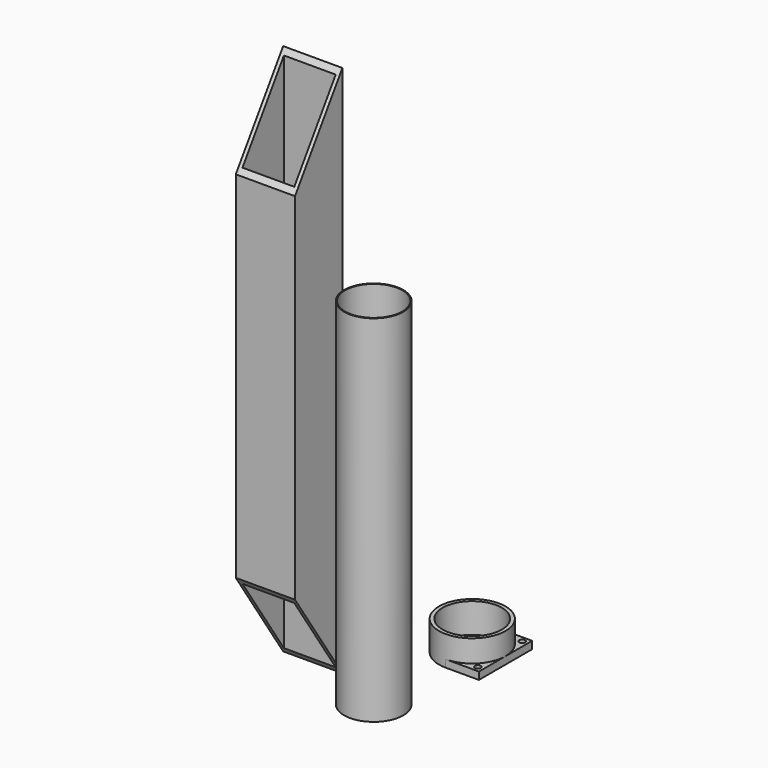
from build123d import *

# Parameters (mm, degrees)
F0_R       = 25.4
F0_R_2     = 24.60625
F1_DEPTH   = 152.4
F2_R       = 25.4
F2_R_2     = 24.60625
F3_DEPTH   = 304.8
F5_DEPTH   = 6.35
F7_DEPTH   = 19.05
F8_R       = 25.4
F8_R_2     = 2.54
F9_DEPTH   = 304.801
F10_R      = 26.9875
F11_DEPTH  = 6.35
F12_R      = 24.60625
F13_DEPTH  = 19.05
F14_R      = 2.159
F14_R_2    = 12.7
F13_FACE_R = 24.60625
F15_DEPTH  = 304.801
F16_R      = 2.159
F17_DEPTH  = 19.05
F18_R      = 12.7
F19_DEPTH  = 19.05
F20_R      = 25.4
F20_R_2    = 2.159
F20_R_3    = 12.7
F21_DEPTH  = 3.175
F23_W      = 50.8
F23_H      = 50.8
F23_W_2    = 44.45
F23_H_2    = 44.45
F24_DEPTH  = 457.2
F26_DEPTH  = 128.3173194947


with BuildPart() as f1:
    # F0 (on Top) → F1 (new body)
    with BuildSketch(Plane.XY):
        with Locations((-46.0453219712, 48.7792603672)):
            Circle(F0_R)
        with Locations((-46.0453219712, 48.7792603672)):
            Circle(F0_R_2, mode=Mode.SUBTRACT)
    extrude(amount=F1_DEPTH)


with BuildPart() as f3:
    # F2 (on Top) → F3 (new body)
    with BuildSketch(Plane.XY):
        with Locations((30.5050238967, -35.8290150762)):
            Circle(F2_R)
        with Locations((30.5050238967, -35.8290150762)):
            Circle(F2_R_2, mode=Mode.SUBTRACT)
    extrude(amount=F3_DEPTH)


with BuildPart() as f5:
    # F4 (on Top) → F5 (new body)
    with BuildSketch(Plane.XY):
        with BuildLine():
            Line((63.3678516858, 35.9171391623), (63.3678516858, 64.4921391623))
            ThreePointArc((63.3678516858, 64.4921391623), (54.9984279582, 44.2865628899), (34.7928516858, 35.9171391623))
            Line((34.7928516858, 35.9171391623), (63.3678516858, 35.9171391623))
        make_face()
        with BuildLine():
            ThreePointArc((34.7928516858, 35.9171391623), (54.9984279582, 44.2865628899), (63.3678516858, 64.4921391623))
            ThreePointArc((63.3678516858, 64.4921391623), (54.9984279582, 84.6977154347), (34.7928516858, 93.0671391623))
            Line((34.7928516858, 93.0671391623), (34.7928516858, 35.9171391623))
        make_face()
        with BuildLine():
            ThreePointArc((34.7928516858, 93.0671391623), (54.9984279582, 84.6977154347), (63.3678516858, 64.4921391623))
            Line((63.3678516858, 64.4921391623), (63.3678516858, 93.0671391623))
            Line((63.3678516858, 93.0671391623), (34.7928516858, 93.0671391623))
        make_face()
        with BuildLine():
            Line((34.7928516858, 35.9171391623), (34.7928516858, 93.0671391623))
            ThreePointArc((34.7928516858, 93.0671391623), (6.2178516858, 64.4921391623), (34.7928516858, 35.9171391623))
        make_face()
    extrude(amount=F5_DEPTH)

    # F6 (on face) → F7 (join)
    with BuildSketch(Plane.XY.offset(6.35)):
        with BuildLine():
            ThreePointArc((34.7928516858, 35.9171391623), (54.9984279582, 44.2865628899), (63.3678516858, 64.4921391623))
            ThreePointArc((63.3678516858, 64.4921391623), (54.9984279582, 84.6977154347), (34.7928516858, 93.0671391623))
            ThreePointArc((34.7928516858, 93.0671391623), (6.2178516858, 64.4921391623), (34.7928516858, 35.9171391623))
        make_face()
    extrude(amount=F7_DEPTH)

    # F8 (on face) → F9 (cut, through all)
    with BuildSketch(Plane(origin=(0, 0, 0), x_dir=(1, 0, 0), z_dir=(0, 0, -1))):
        with Locations((34.7928516858, -64.4921391623)):
            Circle(F8_R)
        with Locations((58.6053516858, -88.3046391623)):
            Circle(F8_R_2)
        with Locations((58.6053516858, -40.6796391623)):
            Circle(F8_R_2)
    extrude(amount=-F9_DEPTH, mode=Mode.SUBTRACT)


with BuildPart() as f11:
    # F10 (on Top) → F11 (new body)
    with BuildSketch(Plane.XY):
        with Locations((-46.9862222672, -21.7718593776)):
            Circle(F10_R)
    extrude(amount=F11_DEPTH)

    # F12 (on face) → F13 (join)
    with BuildSketch(Plane.XY.offset(6.35)):
        with Locations((-46.9862222672, -21.7718593776)):
            Circle(F12_R)
    extrude(amount=F13_DEPTH)

    # F14 (on face) + F13_face (on face) → F15 (cut, through all)
    with BuildSketch(Plane(origin=(0, 0, 0), x_dir=(1, 0, 0), z_dir=(0, 0, -1))):
        with Locations((-46.9862222672, 43.3618593776)):
            Circle(F14_R)
        with Locations((-25.3962222672, 21.7718593776)):
            Circle(F14_R)
        with Locations((-46.9862222672, 0.1818593776)):
            Circle(F14_R)
        with Locations((-68.5762222672, 21.7718593776)):
            Circle(F14_R)
        with Locations((-46.9862222672, 21.7718593776)):
            Circle(F14_R_2)
    with BuildSketch(Plane(origin=(-46.9862222672, -21.7718593776, 25.4), x_dir=(1, 0, 0), z_dir=(0, 0, 1))):
        Circle(F13_FACE_R)
    extrude(amount=-F15_DEPTH, dir=(0, 0, -1), mode=Mode.SUBTRACT)

    # F16 (on face) → F17 (cut)
    with BuildSketch(Plane.XY.offset(25.4)):
        with BuildLine():
            Line((-52.4140715319, 2.2282654433), (-51.6314077164, -1.2324108482))
            ThreePointArc((-51.6314077164, -1.2324108482), (-46.9862222672, -4.9443593776), (-42.3410368179, -1.2324108482))
            Line((-42.3410368179, -1.2324108482), (-41.5583730024, 2.2282654433))
            ThreePointArc((-41.5583730024, 2.2282654433), (-46.9862222672, 2.8343906224), (-52.4140715319, 2.2282654433))
        make_face()
        with Locations((-46.9862222672, -0.1818593776)):
            Circle(F16_R, mode=Mode.SUBTRACT)
        with BuildLine():
            ThreePointArc((-22.3799722672, -21.7718593776), (-22.5319730409, -19.0410657488), (-22.9860974462, -16.3440101129))
            Line((-22.9860974462, -16.3440101129), (-26.4467737377, -17.1266739284))
            ThreePointArc((-26.4467737377, -17.1266739284), (-30.1587222672, -21.7718593776), (-26.4467737377, -26.4170448268))
            Line((-26.4467737377, -26.4170448268), (-22.9860974462, -27.1997086423))
            ThreePointArc((-22.9860974462, -27.1997086423), (-22.5319730409, -24.5026530065), (-22.3799722672, -21.7718593776))
        make_face()
        with Locations((-25.3962222672, -21.7718593776)):
            Circle(F16_R, mode=Mode.SUBTRACT)
        with BuildLine():
            Line((-51.6314077164, -42.311307907), (-52.4140715319, -45.7719841986))
            ThreePointArc((-52.4140715319, -45.7719841986), (-46.9862222672, -46.3781093776), (-41.5583730024, -45.7719841986))
            Line((-41.5583730024, -45.7719841986), (-42.3410368179, -42.311307907))
            ThreePointArc((-42.3410368179, -42.311307907), (-46.9862222672, -38.5993593776), (-51.6314077164, -42.311307907))
        make_face()
        with Locations((-46.9862222672, -43.3618593776)):
            Circle(F16_R, mode=Mode.SUBTRACT)
        with BuildLine():
            Line((-67.5256707966, -17.1266739284), (-70.9863470881, -16.3440101129))
            ThreePointArc((-70.9863470881, -16.3440101129), (-71.5924722672, -21.7718593776), (-70.9863470881, -27.1997086423))
            Line((-70.9863470881, -27.1997086423), (-67.5256707966, -26.4170448268))
            ThreePointArc((-67.5256707966, -26.4170448268), (-63.8137222672, -21.7718593776), (-67.5256707966, -17.1266739284))
        make_face()
        with Locations((-68.5762222672, -21.7718593776)):
            Circle(F16_R, mode=Mode.SUBTRACT)
    extrude(amount=-F17_DEPTH, mode=Mode.SUBTRACT)

    # F18 (on face) → F19 (cut)
    with BuildSketch(Plane.XY.offset(25.4)):
        with BuildLine():
            ThreePointArc((-39.7226986142, -0.9353382379), (-46.9862222672, -7.4843593776), (-54.2497459201, -0.9353382379))
            ThreePointArc((-54.2497459201, -0.9353382379), (-62.5894172775, -6.1686643673), (-67.8227434069, -14.5083357247))
            ThreePointArc((-67.8227434069, -14.5083357247), (-61.2737222672, -21.7718593776), (-67.8227434069, -29.0353830306))
            ThreePointArc((-67.8227434069, -29.0353830306), (-62.5894172775, -37.375054388), (-54.2497459201, -42.6083805173))
            ThreePointArc((-54.2497459201, -42.6083805173), (-46.9862222672, -36.0593593776), (-39.7226986142, -42.6083805173))
            ThreePointArc((-39.7226986142, -42.6083805173), (-31.3830272568, -37.375054388), (-26.1497011274, -29.0353830306))
            ThreePointArc((-26.1497011274, -29.0353830306), (-32.6987222672, -21.7718593776), (-26.1497011274, -14.5083357247))
            ThreePointArc((-26.1497011274, -14.5083357247), (-31.3830272568, -6.1686643673), (-39.7226986142, -0.9353382379))
        make_face()
        with Locations((-46.9862222672, -21.7718593776)):
            Circle(F18_R, mode=Mode.SUBTRACT)
    extrude(amount=-F19_DEPTH, mode=Mode.SUBTRACT)

    # F20 (on face) → F21 (cut)
    with BuildSketch(Plane(origin=(0, 0, 0), x_dir=(1, 0, 0), z_dir=(0, 0, -1))):
        with Locations((-46.9862222672, 21.7718593776)):
            Circle(F20_R)
        with Locations((-46.9862222672, 0.1818593776)):
            Circle(F20_R_2, mode=Mode.SUBTRACT)
        with Locations((-68.5762222672, 21.7718593776)):
            Circle(F20_R_2, mode=Mode.SUBTRACT)
        with Locations((-46.9862222672, 43.3618593776)):
            Circle(F20_R_2, mode=Mode.SUBTRACT)
        with Locations((-46.9862222672, 21.7718593776)):
            Circle(F20_R_3, mode=Mode.SUBTRACT)
        with Locations((-25.3962222672, 21.7718593776)):
            Circle(F20_R_2, mode=Mode.SUBTRACT)
    extrude(amount=-F21_DEPTH, mode=Mode.SUBTRACT)


with BuildPart() as f24:
    # F23 (on Top) → F24 (new body)
    with BuildSketch(Plane.XY):
        with Locations((-39.548467809, -39.0210635602)):
            Rectangle(F23_W, F23_H)
        with Locations((-39.548467809, -39.0210635602)):
            Rectangle(F23_W_2, F23_H_2, mode=Mode.SUBTRACT)
    extrude(amount=F24_DEPTH)

    # F25 (on face) → F26 (cut, through all)
    with BuildSketch(Plane(origin=(-64.948467809, 0, 0), x_dir=(0, -1, 0), z_dir=(-1, 0, 0))):
        Polygon((64.4210635602, 381), (64.4210635602, 457.2), (13.6210635602, 457.2), align=None)
        Polygon((64.4210635602, 0), (64.4210635602, 76.2), (13.6210635602, 0), align=None)
    extrude(amount=-F26_DEPTH, mode=Mode.SUBTRACT)


solid = Compound([f1.part, f3.part, f5.part, f24.part])
